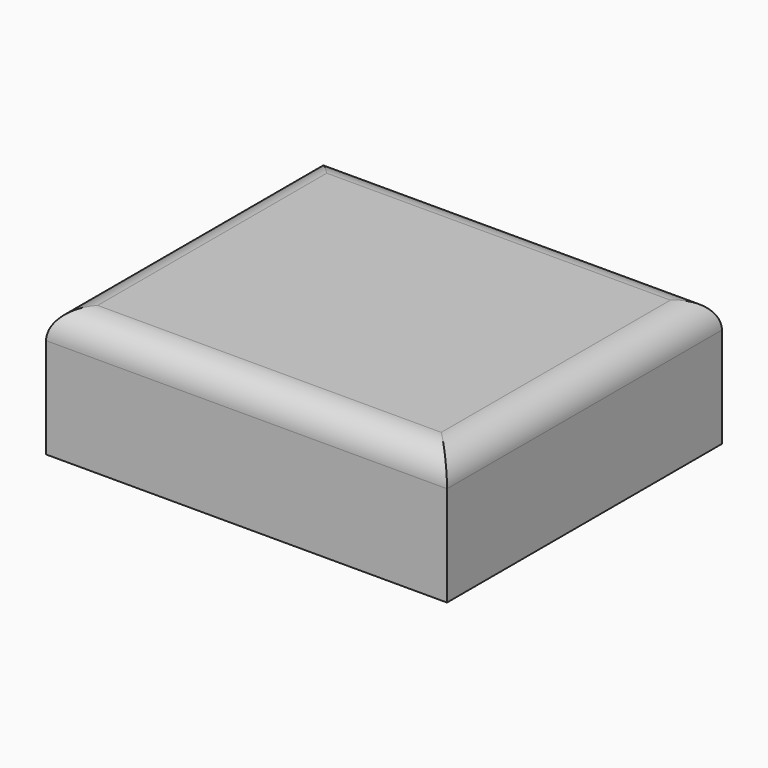
from build123d import *

# Parameters (mm, degrees)
F0_W     = 355.6
F0_H     = 304.8
F1_DEPTH = 25.4
F2_W     = 355.6
F2_H     = 304.8
F3_DEPTH = 88.9
F4_R     = 25.4


with BuildPart() as f1:
    # F0 (on Top) → F1 (new body)
    with BuildSketch(Plane.XY):
        Rectangle(F0_W, F0_H)
    extrude(amount=F1_DEPTH)

    # F2 (on face) → F3 (join)
    with BuildSketch(Plane.XY.offset(25.4)):
        Rectangle(F2_W, F2_H)
    extrude(amount=F3_DEPTH)

    # F4
    f4_edges = [f1.edges().sort_by_distance(p)[0] for p in [
        (-177.8, 0, 114.3),
        (0, -152.4, 114.3),
        (177.8, 0, 114.3),
        (0, 152.4, 114.3),
    ]]
    fillet(f4_edges, radius=F4_R)


solid = f1.part
